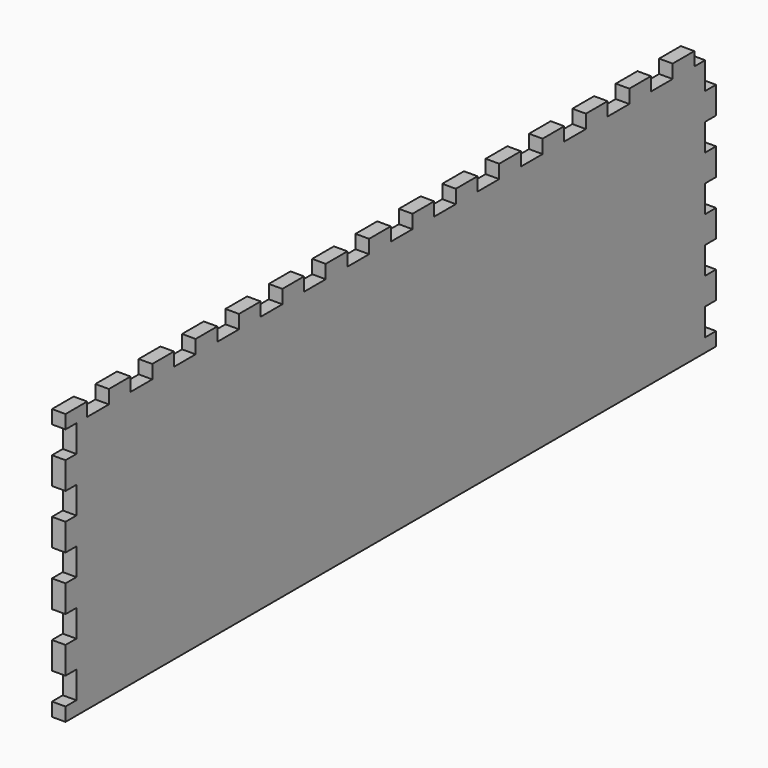
from build123d import *

# Parameters (mm, degrees)
SKETCH054_W             = 100
SKETCH054_H             = 300
PAD038_DEPTH            = 5
SKETCH058_W             = 10
SKETCH058_H             = 5
POCKET016_DEPTH         = 5
LINEARPATTERN033_COUNT  = 5
LINEARPATTERN033_PITCH  = 20
SKETCH059_W             = 10
SKETCH059_H             = 5
POCKET017_DEPTH         = 5
LINEARPATTERN034_COUNT  = 5
LINEARPATTERN034_PITCH  = 20
SKETCH060_W             = 10
SKETCH060_H             = 5
POCKET018_DEPTH         = 5
LINEARPATTERN035_COUNT  = 15
LINEARPATTERN035_PITCH  = 20
BODY017_PLACEMENT_ANGLE = 90


with BuildPart() as part:
    # Sketch054 → Pad038 (new body)
    with BuildSketch(Plane.XY):
        Rectangle(SKETCH054_W, SKETCH054_H)
    extrude(amount=PAD038_DEPTH)

    # Sketch058 (on DatumPlane) → Pocket016 (cut)
    with BuildSketch(Plane.XZ.offset(150)):
        with Locations((-40, 2.5)):
            Rectangle(SKETCH058_W, SKETCH058_H)
    pocket016 = extrude(amount=-POCKET016_DEPTH, mode=Mode.SUBTRACT)

    # LinearPattern033: Pocket016 ×5
    with Locations(*[(i * LINEARPATTERN033_PITCH, 0, 0) for i in range(1, LINEARPATTERN033_COUNT)]):
        add(pocket016, mode=Mode.SUBTRACT)

    # Sketch059 (on DatumPlane) → Pocket017 (cut)
    with BuildSketch(Plane(origin=(0, 150, 0), x_dir=(-1, 0, 0), z_dir=(0, 1, 0))):
        with Locations((-40, 2.5)):
            Rectangle(SKETCH059_W, SKETCH059_H)
    pocket017 = extrude(amount=-POCKET017_DEPTH, mode=Mode.SUBTRACT)

    # LinearPattern034: Pocket017 ×5
    with Locations(*[(-i * LINEARPATTERN034_PITCH, 0, 0) for i in range(1, LINEARPATTERN034_COUNT)]):
        add(pocket017, mode=Mode.SUBTRACT)

    # Sketch060 (on DatumPlane) → Pocket018 (cut)
    with BuildSketch(Plane.YZ.offset(50)):
        with Locations((-135, 2.5)):
            Rectangle(SKETCH060_W, SKETCH060_H)
    pocket018 = extrude(amount=-POCKET018_DEPTH, mode=Mode.SUBTRACT)

    # LinearPattern035: Pocket018 ×15
    with Locations(*[(0, i * LINEARPATTERN035_PITCH, 0) for i in range(1, LINEARPATTERN035_COUNT)]):
        add(pocket018, mode=Mode.SUBTRACT)


with BuildPart() as part_1:
    # Body017 placement: moved
    add(part.part.moved(Location((255, 0, 155))).rotate(Axis((255, 0, 155), (0, -1, 0)), BODY017_PLACEMENT_ANGLE))


solid = part_1.part
